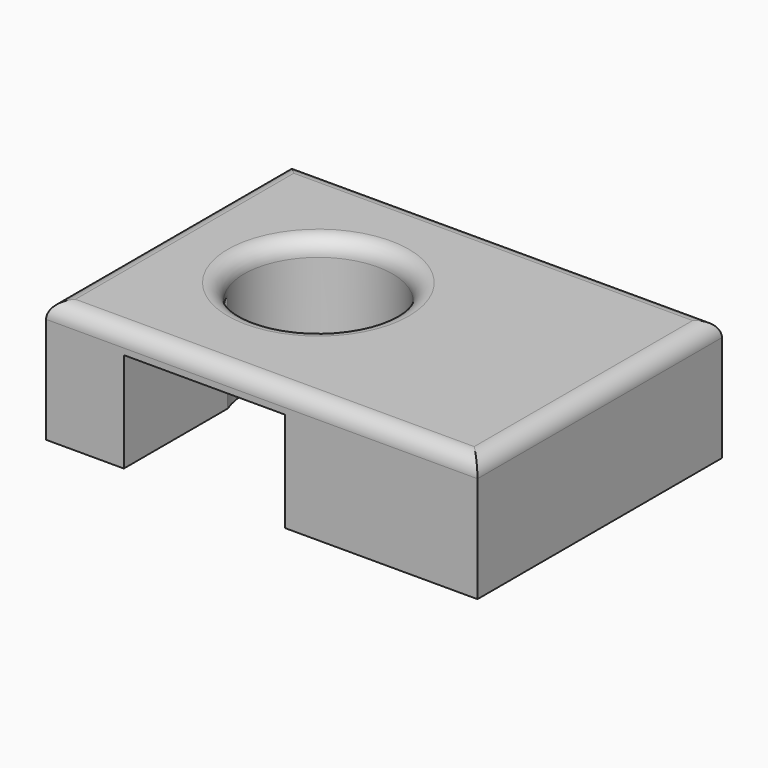
from build123d import *

# Parameters (mm, degrees)
F1_W     = 134.2979371548
F1_H     = 95.1243713498
F1_R     = 23.0942820745
F2_DEPTH = 38.1
F3_W     = 50.118137151
F3_H     = 31.0858320445
F4_DEPTH = 43.18
F5_R     = 5.08


with BuildPart() as f2:
    # F1 (on face) → F2 (new body)
    with BuildSketch(Plane.XY):
        with Locations((21.4310362935, -1.2426972389)):
            Rectangle(F1_W, F1_H)
        Circle(F1_R, mode=Mode.SUBTRACT)
    extrude(amount=F2_DEPTH)

    # F3 (on face) → F4 (cut)
    with BuildSketch(Plane.XZ.offset(48.8048829138)):
        with Locations((3.5529956222, 15.5429160222)):
            Rectangle(F3_W, F3_H)
    extrude(amount=-F4_DEPTH, mode=Mode.SUBTRACT)

    # F5
    f5_edges = [f2.edges().sort_by_distance(p)[0] for p in [
        (21.431036, 46.319488, 38.1),
        (-45.717932, -1.242697, 38.1),
        (21.431036, -48.804883, 38.1),
        (88.580005, -1.242697, 38.1),
        (-23.094282, 0, 38.1),
    ]]
    fillet(f5_edges, radius=F5_R)


solid = f2.part
